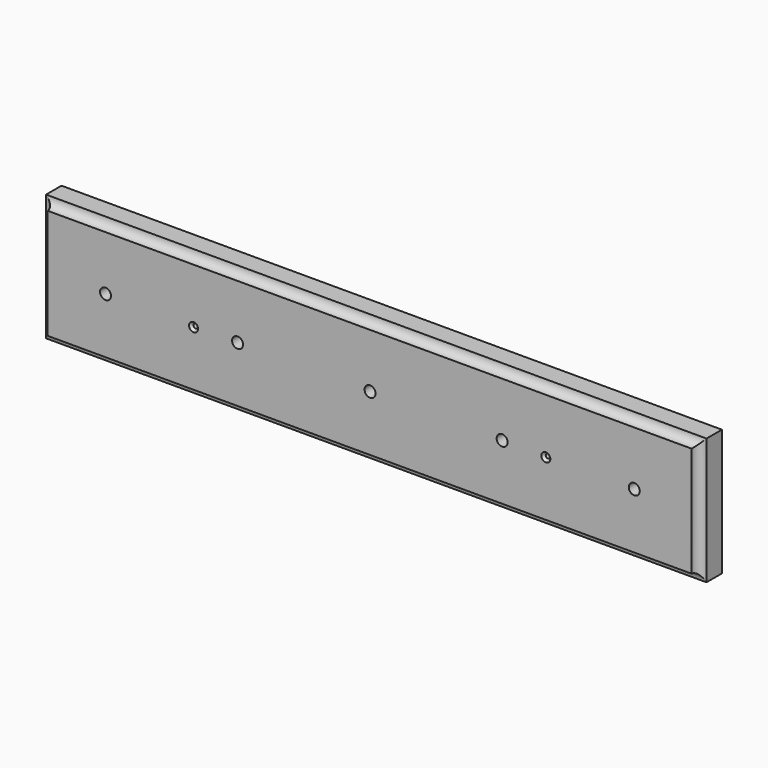
from build123d import *

# Parameters (mm, degrees)
F0_W            = 762
F0_H            = 146.05
F1_DEPTH        = 31.75
F2_R            = 9.525
F3_DEPTH        = 762.001
F4_R            = 9.525
F5_DEPTH        = 146.051
F6_R            = 9.525
F7_DEPTH        = 762.0010001
F8_R            = 9.5195259248
F9_DEPTH        = 146.0510001
F11_D           = 12.7
F11_DEPTH       = 19.05
F11_TIP         = 3.8154649308
F12_D           = 5.5
F12_CSINK_D     = 11.2
F12_CSINK_ANGLE = 90
F14_D           = 5.1054
F14_CSINK_D     = 10.4394
F14_CSINK_ANGLE = 82


with BuildPart() as f1:
    # F0 (on Front) → F1 (new body)
    with BuildSketch(Plane.XZ):
        Rectangle(F0_W, F0_H)
    extrude(amount=F1_DEPTH)

    # F2 (on face) → F3 (cut, through all)
    with BuildSketch(Plane(origin=(-381, 0, 0), x_dir=(0, -1, 0), z_dir=(-1, 0, 0))):
        with Locations((31.75, 73.025)):
            Circle(F2_R)
    extrude(amount=-F3_DEPTH, mode=Mode.SUBTRACT)

    # F4 (on face) → F5 (cut, through all)
    with BuildSketch(Plane.XY.offset(73.025)):
        with Locations((-380.995452404, -31.7343771458)):
            Circle(F4_R)
    extrude(amount=-F5_DEPTH, mode=Mode.SUBTRACT)

    # F6 (on face) → F7 (cut, through all)
    with BuildSketch(Plane.YZ.offset(381)):
        with Locations((-31.75, -73.025)):
            Circle(F6_R)
    extrude(amount=-F7_DEPTH, mode=Mode.SUBTRACT)

    # F8 (on face) → F9 (cut, through all)
    with BuildSketch(Plane(origin=(0, 0, -73.025), x_dir=(1, 0, 0), z_dir=(0, 0, -1))):
        with Locations((381.0260295868, 31.7688845098)):
            Circle(F8_R)
    extrude(amount=-F9_DEPTH, mode=Mode.SUBTRACT)

    # F11
    with Locations(Plane.XZ.offset(31.75)):
        with Locations((-304.7976701619, 0.8426916512), (-152.3976701619, 0.8426916512), (0.466863421, 0.8401229861), (152.866863421, 0.8401229861), (305.266863421, 0.8401229861)):
            Hole(F11_D / 2, depth=F11_DEPTH)
            with Locations((0, 0, -(F11_DEPTH + F11_TIP / 2))):  # 118° drill point
                Cone(0, F11_D / 2, F11_TIP, mode=Mode.SUBTRACT)

    # F12 (through all)
    with Locations(Plane(origin=(0, 0, 0), x_dir=(1, 0, 0), z_dir=(0, 1, 0))):
        with Locations((304.8, 0), (152.4, 0), (0, 0), (-152.4, 0), (-304.8, 0)):
            CounterSinkHole(F12_D / 2, F12_CSINK_D / 2, counter_sink_angle=F12_CSINK_ANGLE)

    # F14 (through all)
    with Locations(Plane.XZ.offset(31.75)):
        with Locations((-203.2, 0), (203.2, 0)):
            CounterSinkHole(F14_D / 2, F14_CSINK_D / 2, counter_sink_angle=F14_CSINK_ANGLE)


solid = f1.part
